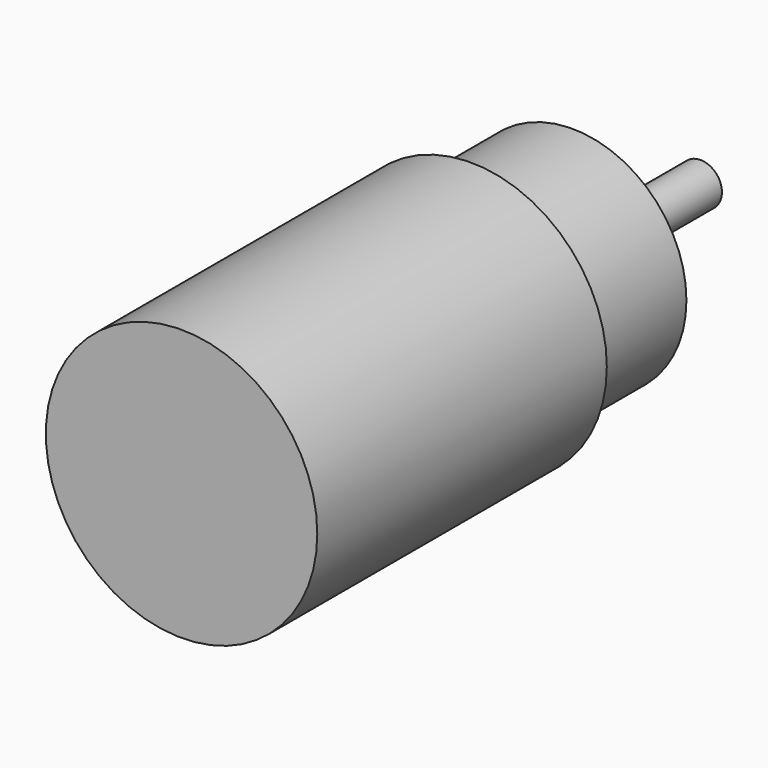
from build123d import *

# Parameters (mm, degrees)
F0_R     = 16
F1_DEPTH = 17.78
F2_R     = 19.05
F3_DEPTH = 50.8
F5_DEPTH = 22.479


with BuildPart() as f1:
    # F0 (on Front) → F1 (new body)
    with BuildSketch(Plane.XZ):
        Circle(F0_R)
    extrude(amount=F1_DEPTH)

    # F2 (on face) → F3 (join)
    with BuildSketch(Plane.XZ.offset(17.78)):
        Circle(F2_R)
    extrude(amount=F3_DEPTH)

    # F4 (on face) → F5 (join)
    with BuildSketch(Plane(origin=(0, 0, 0), x_dir=(-1, 0, 0), z_dir=(0, 1, 0))):
        with BuildLine():
            ThreePointArc((0, -3), (2.12132, -2.12132), (3, 0))
            ThreePointArc((3, 0), (-2.12132, 2.12132), (0, -3))
        make_face()
    extrude(amount=F5_DEPTH)


solid = f1.part
